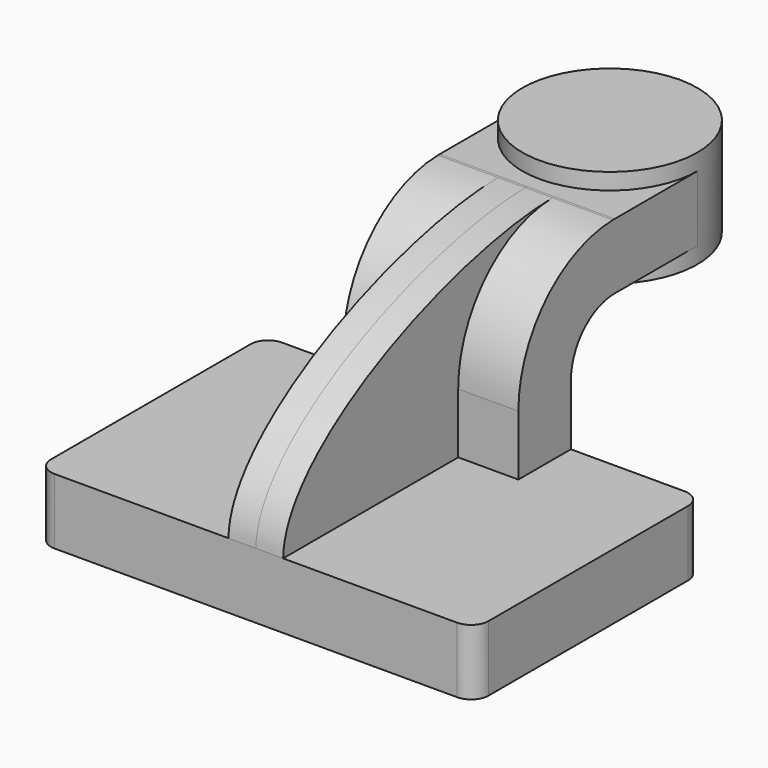
from build123d import *

# Parameters (mm, degrees)
F1_DEPTH = 63.5
F2_DEPTH = 25.4
F3_DEPTH = 7.9375
F0_W     = 25.4
F0_H     = 19.05
F4_DEPTH = 25.4
F6_R     = 5.08


with BuildPart() as f1:
    # F0 (on Right) → F1 (new body, symmetric)
    with BuildSketch(Plane.YZ):
        Polygon((22.225, 9.525), (-41.275, 9.525), (-41.275, -9.525), (41.275, -9.525), (41.275, 9.525), align=None)
    extrude(amount=F1_DEPTH, both=True)

    # F0 (on Right) → F2 (join, symmetric)
    with BuildSketch(Plane.YZ):
        with BuildLine():
            Line((22.225, 27.0002), (22.225, 9.525))
            Line((22.225, 9.525), (41.275, 9.525))
            Line((41.275, 9.525), (41.275, 27.0002))
            ThreePointArc((41.275, 27.0002), (45.9246798487, 38.2255201513), (57.15, 42.8752))
            Line((57.15, 42.8752), (61.7728, 42.8752))
            Line((61.7728, 42.8752), (61.7728, 61.9252))
            Line((61.7728, 61.9252), (57.15, 61.9252))
            add(Edge.make_bspline(
                [(56.4704910637, 61.9185890322), (56.6978208401, 61.9216781998), (56.9243298896, 61.9238834244), (57.15, 61.9252)],
                knots=[110.8312649527, 110.8312649527, 110.8312649527, 110.8312649527, 111.5045361635, 111.5045361635, 111.5045361635, 111.5045361635], degree=3))
            ThreePointArc((56.4704910637, 61.9185890322), (32.2152103017, 51.4544815822), (22.225, 27.0002))
        make_face()
    extrude(amount=F2_DEPTH, both=True)

    # F0 (on Right) → F3 (join, symmetric)
    with BuildSketch(Plane.YZ):
        with BuildLine():
            add(Edge.make_bspline(
                [(-41.275, 9.525), (-40.6142083443, 36.9480472053), (19.0483552666, 61.4100623809), (56.4704910637, 61.9185890322)],
                knots=[0, 0, 0, 0, 110.8312649527, 110.8312649527, 110.8312649527, 110.8312649527], degree=3))
            Line((-41.275, 9.525), (22.225, 9.525))
            Line((22.225, 9.525), (22.225, 27.0002))
            ThreePointArc((22.225, 27.0002), (32.2152103017, 51.4544815822), (56.4704910637, 61.9185890322))
        make_face()
    extrude(amount=F3_DEPTH, both=True)

    # F0 (on Right) → F4 (join, symmetric)
    with BuildSketch(Plane.YZ):
        with Locations((74.4728, 52.4002)):
            Rectangle(F0_W, F0_H)
    extrude(amount=F4_DEPTH, both=True)

    # F0 (on Right) → F5 (revolve)
    with BuildSketch(Plane.YZ):
        Polygon((87.1728, 66.675), (87.1728, 61.9252), (87.1728, 42.8752), (87.1728, 38.1), (112.5728, 38.1), (112.5728, 66.675), align=None)
    revolve(axis=Axis((0, 87.1728, 52.3875), (0, 0, -1)))

    # F6
    f6_edges = [f1.edges().sort_by_distance(p)[0] for p in [
        (63.5, -41.275, 0),
        (63.5, 41.275, 0),
        (-63.5, 41.275, 0),
        (-63.5, -41.275, 0),
    ]]
    fillet(f6_edges, radius=F6_R)


solid = f1.part
